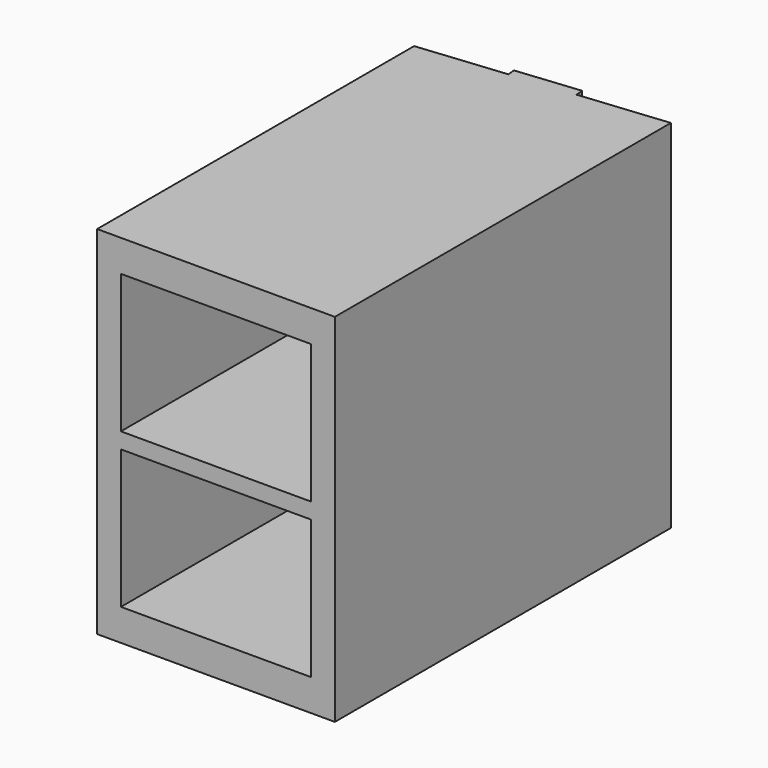
from build123d import *

# Parameters (mm, degrees)
F1_W     = 30
F1_H     = 50
F2_DEPTH = 45
F3_W     = 4
F3_H     = 2
F4_DEPTH = 1
F5_W     = 24
F5_H     = 17.5
F6_DEPTH = 53.0006863286


with BuildPart() as f2:
    # F1 (on Top) → F2 (new body)
    with BuildSketch(Plane.XY):
        Polygon((30, 2.9996863286), (0, 0), (30, 0), align=None)
        with Locations((15, -25)):
            Rectangle(F1_W, F1_H)
    extrude(amount=F2_DEPTH)

    # F3 (on face) → F4 (join)
    with BuildSketch(Plane(origin=(0, 0, 0), x_dir=(-0.9950382202, -0.0994934182, 0), z_dir=(-0.0994934182, 0.9950382202, 0))):
        with Locations((-13.0747978268, 1)):
            Rectangle(F3_W, F3_H)
        with Locations((-17.0747978268, 1)):
            Rectangle(F3_W, F3_H)
        Polygon((-11.0747978268, 45), (-15.0747978268, 45), (-19.0747978268, 45), (-19.0747978268, 43), (-15.0747978268, 43), (-11.0747978268, 43), align=None)
    extrude(amount=F4_DEPTH)

    # F5 (on face) → F6 (cut, through all)
    with BuildSketch(Plane.XZ.offset(50)):
        with Locations((15, 12.75)):
            Rectangle(F5_W, F5_H)
        with Locations((15, 32.25)):
            Rectangle(F5_W, F5_H)
    extrude(amount=-F6_DEPTH, mode=Mode.SUBTRACT)


solid = f2.part
